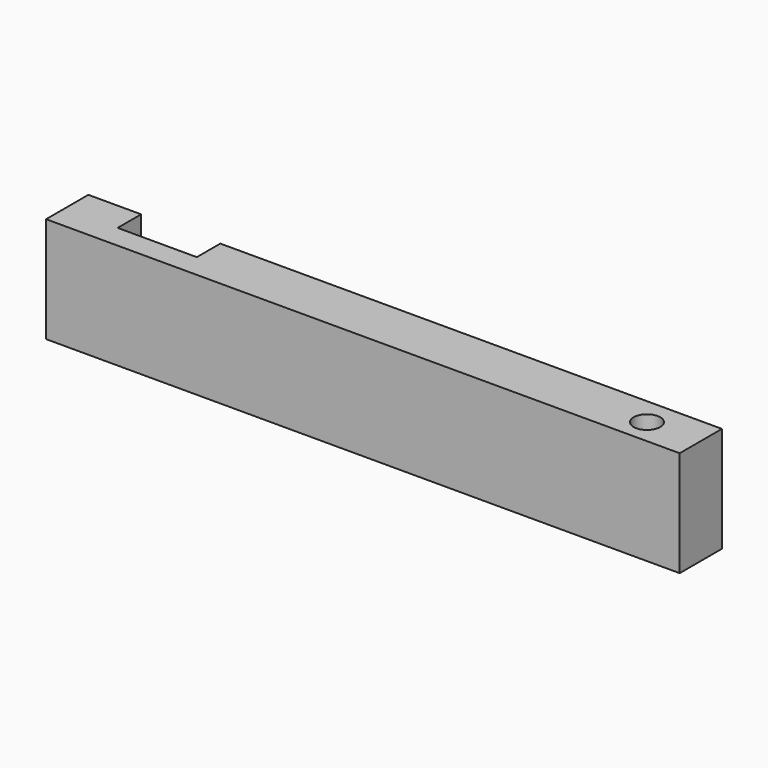
from build123d import *

# Parameters (mm, degrees)
F2_R     = 3.2004
F3_DEPTH = 25.4


with BuildPart() as f3:
    # F2 (on face) → F3 (new body)
    with BuildSketch(Plane.XY):
        Polygon((-139.7, 62.976554), (-139.7, 70.040812), (-152.4, 70.040812), (-152.4, 57.340812), (0, 57.340812), (0, 70.040812), (-120.65, 70.040812), (-120.65, 62.976554), align=None)
        with Locations((-12.7, 63.383125)):
            Circle(F2_R, mode=Mode.SUBTRACT)
    extrude(amount=F3_DEPTH)


solid = f3.part
